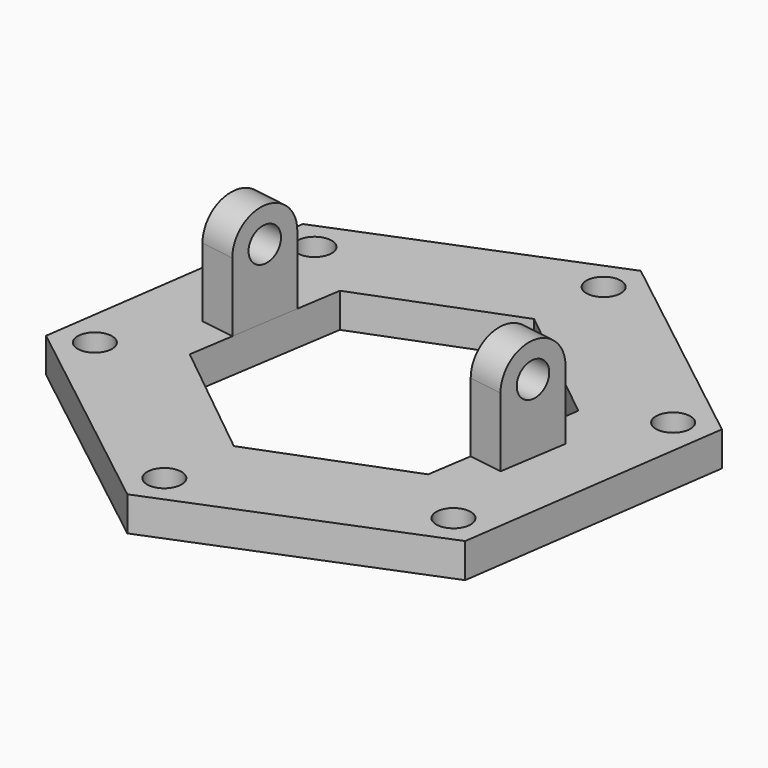
from build123d import *

# Parameters (mm, degrees)
F1_DEPTH  = 5
F2_R      = 2.5
F3_DEPTH  = 25
F5_DEPTH  = 6
F7_DEPTH  = 5
F8_R      = 2.5
F9_DEPTH  = 25
F10_R     = 2.5
F11_DEPTH = 5


with BuildPart() as f1:
    # F0 (on Top) → F1 (new body)
    with BuildSketch(Plane.XY):
        Polygon((31.50713, -24.643473), (37.095438, 14.964239), (5.588308, 39.607712), (-31.50713, 24.643473), (-37.095438, -14.964239), (-5.588308, -39.607712), align=None)
    extrude(amount=F1_DEPTH)

    # F2 (on face) → F3 (cut)
    with BuildSketch(Plane(origin=(0, 0, 0), x_dir=(1, 0, 0), z_dir=(0, 0, -1))):
        with Locations((31.741173, -12.804337)):
            Circle(F2_R)
        with Locations((4.781705, -33.890831)):
            Circle(F2_R)
        with Locations((-26.959468, -21.086494)):
            Circle(F2_R)
        with Locations((-31.741173, 12.804337)):
            Circle(F2_R)
        with Locations((-4.781705, 33.890831)):
            Circle(F2_R)
        with Locations((26.959468, 21.086494)):
            Circle(F2_R)
    extrude(amount=-F3_DEPTH, mode=Mode.SUBTRACT)

    # F4 (on face) → F5 (cut)
    with BuildSketch(Plane.XY.offset(5)):
        Polygon((17.991608, -14.47879), (21.534804, 8.341794), (3.543196, 22.820585), (-17.991608, 14.47879), (-21.534804, -8.341794), (-3.543196, -22.820585), align=None)
    extrude(amount=-F5_DEPTH, mode=Mode.SUBTRACT)

    # F6 (on face) → F7 (join)
    with BuildSketch(Plane(origin=(-19.763206, 3.068498, 0), x_dir=(0.153425, 0.98816, 0), z_dir=(0.98816, -0.153425, 0))):
        with BuildLine():
            Line((-5, 15), (-5, 5))
            Line((-5, 5), (5, 5))
            Line((5, 5), (5, 15))
            ThreePointArc((5, 15), (0, 20), (-5, 15))
        make_face()
    extrude(amount=-F7_DEPTH)

    # F8 (on face) → F9 (cut)
    with BuildSketch(Plane(origin=(-19.763206, 3.068498, 0), x_dir=(0.153425, 0.98816, 0), z_dir=(0.98816, -0.153425, 0))):
        with Locations((0, 15)):
            Circle(F8_R)
    extrude(amount=-F9_DEPTH, mode=Mode.SUBTRACT)

    # F10 (on face) → F11 (join)
    with BuildSketch(Plane(origin=(19.763206, -3.068498, 0), x_dir=(-0.153425, -0.98816, 0), z_dir=(-0.98816, 0.153425, 0))):
        with BuildLine():
            Line((-5, 15), (-5, 5))
            Line((-5, 5), (5, 5))
            Line((5, 5), (5, 15))
            ThreePointArc((5, 15), (0, 20), (-5, 15))
        make_face()
        with Locations((0, 15)):
            Circle(F10_R, mode=Mode.SUBTRACT)
    extrude(amount=-F11_DEPTH)


solid = f1.part
